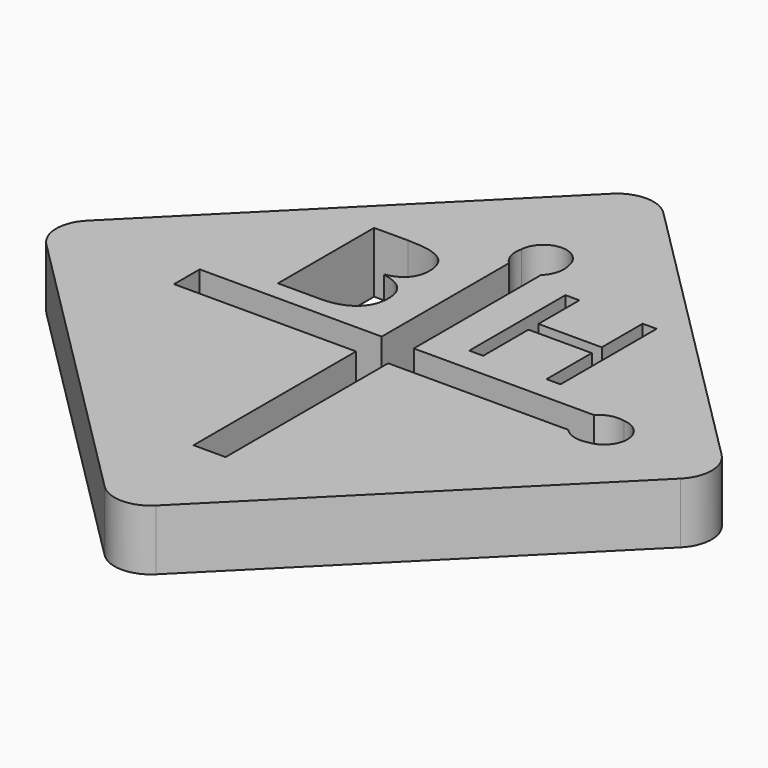
from build123d import *

# Parameters (mm, degrees)
F1_DEPTH = 2.5
F2_R     = 0.85
F3_DEPTH = 12.5


with BuildPart() as f1:
    # F0 (on Top) → F1 (new body)
    with BuildSketch(Plane.XY):
        with BuildLine():
            Line((13.081475452, -13.081475452), (1.0606601718, -1.0606601718))
            ThreePointArc((1.0606601718, -1.0606601718), (0, -0.6213203436), (-1.0606601718, -1.0606601718))
            Line((-1.0606601718, -1.0606601718), (-13.081475452, -13.081475452))
            ThreePointArc((-13.081475452, -13.081475452), (-13.5208152802, -14.1421356237), (-13.081475452, -15.2027957955))
            Line((-13.081475452, -15.2027957955), (-1.0606601718, -27.2236110757))
            ThreePointArc((-1.0606601718, -27.2236110757), (0, -27.6629509039), (1.0606601718, -27.2236110757))
            Line((1.0606601718, -27.2236110757), (13.081475452, -15.2027957955))
            ThreePointArc((13.081475452, -15.2027957955), (13.5208152802, -14.1421356237), (13.081475452, -13.081475452))
        make_face()
        with BuildLine():
            Line((-5.5551142142, -12.6671945862), (-5.5551142142, -7.7095122946))
            Line((-5.5551142142, -7.7095122946), (-4.1542895614, -7.7095122946))
            add(Edge.make_bspline(
                [(-4.1542895614, -7.7095122946), (-3.1679614364, -7.7095122946), (-2.7268807073, -8.0046511835)],
                knots=[0, 0, 0, 1, 1, 1], degree=2))
            add(Edge.make_bspline(
                [(-2.7268807073, -8.0046511835), (-2.2857999781, -8.2997900724), (-2.2857999781, -8.9367258362)],
                knots=[0, 0, 0, 1, 1, 1], degree=2))
            add(Edge.make_bspline(
                [(-2.2857999781, -8.9367258362), (-2.2857999781, -9.3783491001), (-2.5315682073, -9.6648074335)],
                knots=[0, 0, 0, 1, 1, 1], degree=2))
            add(Edge.make_bspline(
                [(-2.5315682073, -9.6648074335), (-2.7773364364, -9.9512657668), (-3.2493416448, -10.0359011835)],
                knots=[0, 0, 0, 1, 1, 1], degree=2))
            Line((-3.2493416448, -10.0359011835), (-3.2493416448, -10.0695383362))
            add(Edge.make_bspline(
                [(-3.2493416448, -10.0695383362), (-2.1197843531, -10.2626806974), (-2.1197843531, -11.2566043085)],
                knots=[0, 0, 0, 1, 1, 1], degree=2))
            add(Edge.make_bspline(
                [(-2.1197843531, -11.2566043085), (-2.1197843531, -11.9206668085), (-2.5690031031, -12.2939306974)],
                knots=[0, 0, 0, 1, 1, 1], degree=2))
            add(Edge.make_bspline(
                [(-2.5690031031, -12.2939306974), (-3.0182218531, -12.6671945862), (-3.8255135198, -12.6671945862)],
                knots=[0, 0, 0, 1, 1, 1], degree=2))
            Line((-3.8255135198, -12.6671945862), (-5.5551142142, -12.6671945862))
        make_face(mode=Mode.SUBTRACT)
        with BuildLine():
            Line((-8.1334756687, -14.8039748892), (-8.1334756687, -13.4802963582))
            Line((-8.1334756687, -13.4802963582), (-0.6236797201, -13.4802963582))
            Line((-0.6236797201, -13.4802963582), (-0.6236797201, -6.9198086858))
            ThreePointArc((-0.6236797201, -6.9198086858), (-0.9032194318, -6.4583786209), (-0.9135835525, -5.9189782686))
            ThreePointArc((-0.9135835525, -5.9189782686), (0.0168397474, -5.0141534426), (0.9868078824, -5.876451129))
            ThreePointArc((0.9868078824, -5.876451129), (0.9900106564, -6.4384308628), (0.6999988109, -6.9198086858))
            Line((0.6999988109, -6.9198086858), (0.6999988109, -13.4802963582))
            Line((0.6999988109, -13.4802963582), (8.1334756687, -13.4802963582))
            ThreePointArc((8.1334756687, -13.4802963582), (8.5949057336, -13.2007566465), (9.134306086, -13.1903925258))
            ThreePointArc((9.134306086, -13.1903925258), (10.0391309119, -14.1208158258), (9.1768332255, -15.0907839607))
            ThreePointArc((9.1768332255, -15.0907839607), (8.6148534917, -15.0939867347), (8.1334756687, -14.8039748892))
            Line((8.1334756687, -14.8039748892), (0.6999988109, -14.8039748892))
            Line((0.6999988109, -14.8039748892), (0.6999988109, -23.1867600232))
            Line((0.6999988109, -23.1867600232), (-0.6236797201, -23.1867600232))
            Line((-0.6236797201, -23.1867600232), (-0.6236797201, -14.8039748892))
            Line((-0.6236797201, -14.8039748892), (-8.1334756687, -14.8039748892))
        make_face(mode=Mode.SUBTRACT)
        Polygon((5.9541938537, -7.5251016937), (5.9541938537, -12.4827839853), (5.3780219787, -12.4827839853), (5.3780219787, -10.1498846798), (2.7662598259, -10.1498846798), (2.7662598259, -12.4827839853), (2.1900879509, -12.4827839853), (2.1900879509, -7.5251016937), (2.7662598259, -7.5251016937), (2.7662598259, -9.6344766937), (5.3780219787, -9.6344766937), (5.3780219787, -7.5251016937), align=None, mode=Mode.SUBTRACT)
    extrude(amount=F1_DEPTH)

    # F2 (on Right) → F3 (cut, symmetric)
    with BuildSketch(Plane.YZ):
        with Locations((-2.4908210296, 1.292226194)):
            Circle(F2_R)
    extrude(amount=F3_DEPTH, both=True, mode=Mode.SUBTRACT)


solid = f1.part
